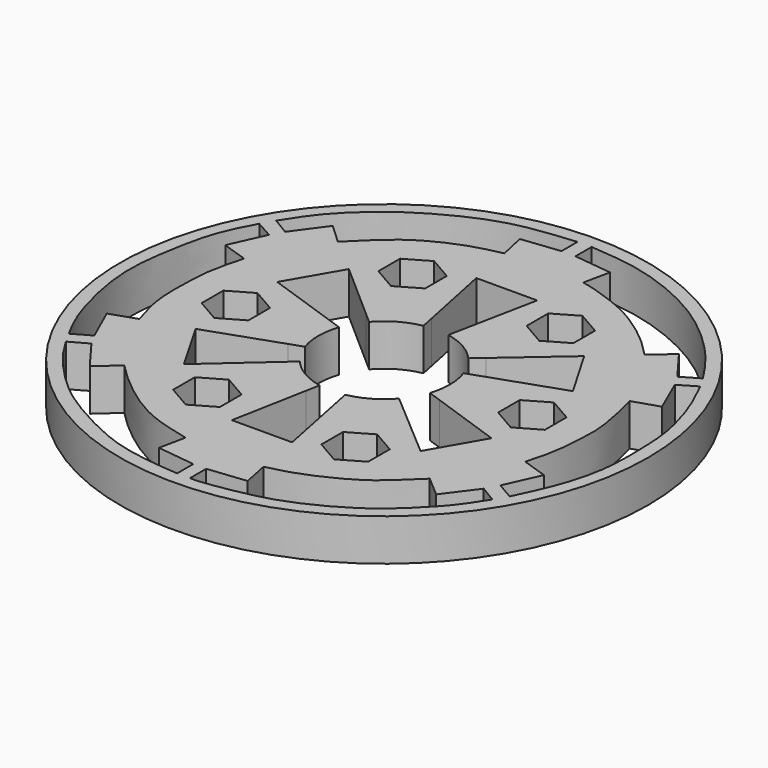
from build123d import *

# Parameters (mm, degrees)
F0_R     = 44.1766957939
F1_DEPTH = 7


with BuildPart() as f1:
    # F0 (on Top) → F1 (new body)
    with BuildSketch(Plane.XY):
        with Locations((-0.1812735665, 1.8058367039)):
            Circle(F0_R)
        with BuildLine():
            Line((-35.9427640307, -20.0616676395), (-32.9918796289, -18.4081528371))
            Line((-32.9918796289, -18.4081528371), (-29.1416766215, -23.5662139987))
            Line((-29.1416766215, -23.5662139987), (-25.7837707269, -20.5390114372))
            add(Edge.make_bspline(
                [(-25.7837707269, -20.5390114372), (-24.6766888601, -21.7216895691), (-22.2881269547, -23.9302912574), (-17.9201764944, -27.3450027653), (-13.1181523244, -29.9586218184), (-8.9450880668, -30.9922837471), (-6.7541417758, -31.5231993829)],
                knots=[0, 0, 0, 0, 0.2337004463, 0.4815951913, 0.7286397383, 1, 1, 1, 1], degree=3))
            Line((-6.7541417758, -31.5231993829), (-7.6715238485, -35.9393782949))
            Line((-7.6715238485, -35.9393782949), (-1.2969189649, -36.7169804906))
            Line((-1.2969189649, -36.7169804906), (-1.2969189649, -40.1003263926))
            add(Edge.make_bspline(
                [(-35.9427640307, -20.0616676395), (-35.4150241051, -20.9547907919), (-34.269857196, -22.8975750751), (-31.4611031158, -26.3504393812), (-26.4921125633, -31.2966065978), (-20.0139639421, -35.1310096314), (-13.1648009191, -38.4379065594), (-6.9158089459, -39.6461096822), (-3.1350021728, -39.9546374832), (-1.2969189649, -40.1003263926)],
                knots=[0, 0, 0, 0, 0.1055511433, 0.2295068333, 0.385565344, 0.5492271147, 0.7119682332, 0.8603918885, 1, 1, 1, 1], degree=3))
        make_face(mode=Mode.SUBTRACT)
        Polygon((-21.0694006642, -0.4646748675), (-24.9844006642, -2.7250011714), (-28.8994006642, -0.4646748675), (-28.8994006642, 4.0559777403), (-24.9844006642, 6.3163040441), (-21.0694006642, 4.0559777403), align=None, mode=Mode.SUBTRACT)
        Polygon((-8.659016415, -17.4190677859), (-8.659016415, -21.9397203937), (-12.574016415, -24.2000466975), (-16.489016415, -21.9397203937), (-16.489016415, -17.4190677859), (-12.574016415, -15.158741482), align=None, mode=Mode.SUBTRACT)
        with BuildLine():
            Line((28.8581652474, -23.594352979), (32.6980380249, -18.4495519882))
            Line((32.6980380249, -18.4495519882), (35.4962898326, -20.1285049354))
            add(Edge.make_bspline(
                [(0.8634262393, -40.1003263926), (1.2329669728, -40.1185077793), (2.2364504419, -40.1678791191), (6.0822739364, -39.5898896082), (9.7534582449, -38.8990314268), (14.1414351873, -37.8042335927), (19.3827796692, -35.4060133269), (23.5619930167, -32.9306072836), (27.0265026249, -30.3404491609), (31.0428462834, -26.2500703834), (33.0842958753, -23.891694874), (34.6497670872, -21.449248658), (35.4962898326, -20.1285049354)],
                knots=[0, 0, 0, 0, 0.0564376647, 0.1532558075, 0.2510560866, 0.3562412055, 0.4759055262, 0.5848852008, 0.689364245, 0.8068772402, 0.8955695847, 1, 1, 1, 1], degree=3))
            Line((0.8634262393, -40.1003263926), (0.8634262393, -36.7169804906))
            Line((0.8634262393, -36.7169804906), (7.2491168883, -36.0181868111))
            Line((7.2491168883, -36.0181868111), (6.3393223007, -31.589468572))
            add(Edge.make_bspline(
                [(6.3393223007, -31.589468572), (7.6179624559, -31.2868540313), (10.3374114447, -30.6432446442), (15.0210865302, -28.6556105594), (19.5017003158, -26.1469501729), (22.3005850776, -23.6206755435), (24.3600558598, -21.6605356306), (25.4243186078, -20.6476036152)],
                knots=[0, 0, 0, 0, 0.1907843597, 0.4057657128, 0.6200100275, 0.8036344211, 1, 1, 1, 1], degree=3))
            Line((25.4243186078, -20.6476036152), (28.8581652474, -23.594352979))
        make_face(mode=Mode.SUBTRACT)
        Polygon((12.2291106827, -15.1485562145), (16.1441106827, -17.4088825184), (16.1441106827, -21.9295351262), (12.2291106827, -24.1898614301), (8.3141106827, -21.9295351262), (8.3141106827, -17.4088825184), align=None, mode=Mode.SUBTRACT)
        with BuildLine():
            Line((-34.111180352, -16.3984984194), (-37.0366284716, -18.077449504))
            add(Edge.make_bspline(
                [(-37.0495924819, 21.7814002151), (-38.0285832494, 19.9720040208), (-40.1040049877, 16.1361555944), (-41.6275560676, 8.2255361173), (-42.4638245681, 1.7752580406), (-41.8845041948, -4.9263216319), (-39.5595719832, -13.5162989727), (-37.7980682738, -16.7008663414), (-37.0366284716, -18.077449504)],
                knots=[0, 0, 0, 0, 0.1604269609, 0.3400988172, 0.5016116203, 0.6671400202, 0.8561156381, 1, 1, 1, 1], degree=3))
            Line((-37.0495924819, 21.7814002151), (-34.0987080801, 20.1278872753))
            Line((-34.0987080801, 20.1278872753), (-36.7363998759, 14.2728876288))
            Line((-36.7363998759, 14.2728876288), (-32.4407899845, 12.8421824391))
            add(Edge.make_bspline(
                [(-32.4384132493, -9.0687066351), (-33.0007762428, -7.262017673), (-34.1163873397, -3.6779229188), (-34.1127493155, 1.8138788117), (-33.9311636584, 7.3053060494), (-32.9413290896, 10.9826332524), (-32.4407899845, 12.8421824391)],
                knots=[0, 0, 0, 0, 0.2512797598, 0.4984867279, 0.7463949913, 1, 1, 1, 1], degree=3))
            Line((-32.4384132493, -9.0687066351), (-36.7341758776, -10.5207949912))
            Line((-36.7341758776, -10.5207949912), (-34.111180352, -16.3984984194))
        make_face(mode=Mode.SUBTRACT)
        with BuildLine():
            Line((1.9605035622, -9.0091258819), (2.4230698671, -11.3073671546))
            Line((2.4230698671, -11.3073671546), (4.9475233663, -23.8500084209))
            Line((4.9475233663, -23.8500084209), (-5.1167129878, -23.8765827792))
            Line((-5.1167129878, -23.8765827792), (-2.7474155599, -11.3090876239))
            Line((-2.7474155599, -11.3090876239), (-2.3141451421, -9.0108857129))
            ThreePointArc((-2.3141451421, -9.0108857129), (-5.7471792254, -7.7110598069), (-8.5631693093, -5.3561775908))
            Line((-8.5631693093, -5.3561775908), (-10.318681596, -6.9106408114))
            Line((-10.318681596, -6.9106408114), (-19.9197644874, -15.4121650359))
            Line((-19.9197644874, -15.4121650359), (-24.9566214666, -6.6612606845))
            Line((-24.9566214666, -6.6612606845), (-12.8524359808, -2.440099833))
            Line((-12.8524359808, -2.440099833), (-10.6440411288, -1.6699538447))
            ThreePointArc((-10.6440411288, -1.6699538447), (-11.2060378981, 1.877922995), (-10.5976950193, 5.4181474766))
            Line((-10.5976950193, 5.4181474766), (-12.8078804246, 6.1824929495))
            Line((-12.8078804246, 6.1824929495), (-24.9228550363, 10.3721984724))
            Line((-24.9228550363, 10.3721984724), (-19.8859961946, 19.0722246716))
            Line((-19.8859961946, 19.0722246716), (-10.2512678858, 10.599545092))
            Line((-10.2512678858, 10.599545092), (-8.4909393642, 9.0515305513))
            ThreePointArc((-8.4909393642, 9.0515305513), (-5.6713042694, 11.3667042315), (-2.2504847152, 12.6349174692))
            Line((-2.2504847152, 12.6349174692), (-2.7204124253, 14.9260160316))
            Line((-2.7204124253, 14.9260160316), (-5.2973194369, 27.4895397884))
            Line((-5.2973194369, 27.4895397884), (4.8723468706, 27.5153366402))
            Line((4.8723468706, 27.5153366402), (2.3641303231, 14.9303607106))
            Line((2.3641303231, 14.9303607106), (1.9059536642, 12.6314594336))
            ThreePointArc((1.9059536642, 12.6314594336), (5.2819349758, 11.3820560739), (8.0754950212, 9.1117519436))
            Line((8.0754950212, 9.1117519436), (9.842007362, 10.6443980024))
            Line((9.842007362, 10.6443980024), (19.5172316661, 19.038731886))
            Line((19.5172316661, 19.038731886), (24.5598385793, 10.3891542211))
            Line((24.5598385793, 10.3891542211), (12.4415224008, 6.1934719096))
            Line((12.4415224008, 6.1934719096), (10.2316073741, 5.4283407436))
            ThreePointArc((10.2316073741, 5.4283407436), (10.6896196206, 3.6427652042), (10.8437264335, 1.8058367039))
            ThreePointArc((10.8437264335, 1.8058367039), (10.7010597097, 0.0379431931), (10.2767518366, -1.6841961998))
            Line((10.2767518366, -1.6841961998), (12.4856017188, -2.4538889489))
            Line((12.4856017188, -2.4538889489), (24.5598385793, -6.6612606845))
            Line((24.5598385793, -6.6612606845), (19.6027243789, -15.2951230373))
            Line((19.6027243789, -15.2951230373), (9.898890459, -6.9677952819))
            Line((9.898890459, -6.9677952819), (8.1241073343, -5.4447683117))
            ThreePointArc((8.1241073343, -5.4447683117), (5.3379599804, -7.7382025906), (1.9605035622, -9.0091258819))
        make_face(mode=Mode.SUBTRACT)
        Polygon((-12.5916578157, 27.8015348378), (-8.6766578157, 25.5412085339), (-8.6766578157, 21.0205559262), (-12.5916578157, 18.7602296223), (-16.5066578157, 21.0205559262), (-16.5066578157, 25.5412085339), align=None, mode=Mode.SUBTRACT)
        with BuildLine():
            add(Edge.make_bspline(
                [(-35.8794154692, 23.841932785), (-34.8132126441, 25.5326746387), (-32.6658740175, 28.9378384637), (-28.0959232016, 33.3536568525), (-24.0112731924, 36.5213116807), (-17.8109417408, 40.0697118504), (-10.632483253, 42.8909963035), (-4.5501012323, 43.4541440788), (-1.3665884127, 43.7488950754)],
                knots=[0, 0, 0, 0, 0.1566037405, 0.3154008348, 0.4604208672, 0.6286242725, 0.8056223063, 1, 1, 1, 1], degree=3))
            Line((-1.3665884127, 43.7488950754), (-1.3665884127, 40.4031522537))
            Line((-1.3665884127, 40.4031522537), (-7.7623375784, 39.6718852187))
            Line((-7.7623375784, 39.6718852187), (-6.7909932788, 35.2468699182))
            add(Edge.make_bspline(
                [(-25.8578727398, 24.2318730558), (-24.5146168119, 25.5665045214), (-21.8946230034, 28.1696764888), (-18.0136074501, 31.2801741566), (-11.9850068046, 34.1060997993), (-8.4615980529, 34.87995212), (-6.7909932788, 35.2468699182)],
                knots=[0, 0, 0, 0, 0.2489268939, 0.4855269254, 0.7560654369, 1, 1, 1, 1], degree=3))
            Line((-25.8578727398, 24.2318730558), (-29.1776629257, 27.3011144216))
            Line((-29.1776629257, 27.3011144216), (-32.9794036317, 22.1121035481))
            Line((-32.9794036317, 22.1121035481), (-35.8794154692, 23.841932785))
        make_face(mode=Mode.SUBTRACT)
        Polygon((8.296469282, 21.0307411936), (8.296469282, 25.5513938014), (12.211469282, 27.8117201053), (16.126469282, 25.5513938014), (16.126469282, 21.0307411936), (12.211469282, 18.7704148898), align=None, mode=Mode.SUBTRACT)
        Polygon((20.7068535312, 4.0763482752), (24.6218535312, 6.3366745791), (28.5368535312, 4.0763482752), (28.5368535312, -0.4443043325), (24.6218535312, -2.7046306364), (20.7068535312, -0.4443043325), align=None, mode=Mode.SUBTRACT)
        with BuildLine():
            Line((36.3932503295, 14.2241245101), (33.8236307633, 20.113023367))
            Line((33.8236307633, 20.113023367), (36.7328477931, 21.8243267352))
            add(Edge.make_bspline(
                [(36.7328477931, 21.8243267352), (37.7125970062, 19.8098338913), (39.7038150639, 15.7156284826), (41.5781915986, 8.5212004628), (41.6838824649, 3.2034013579), (41.879740039, -3.0942876764), (40.2443151323, -10.6189402066), (37.908033776, -15.5363658689), (36.7173468601, -18.0425342207)],
                knots=[0, 0, 0, 0, 0.1662522108, 0.3378868794, 0.484123471, 0.6417151571, 0.8173999576, 1, 1, 1, 1], degree=3))
            Line((36.7173468601, -18.0425342207), (33.817338748, -16.3635812735))
            Line((33.817338748, -16.3635812735), (36.4420106542, -10.5338353699))
            Line((36.4420106542, -10.5338353699), (32.1608995926, -9.0948069503))
            add(Edge.make_bspline(
                [(32.1608995926, -9.0948069503), (32.6409259852, -7.3834213081), (33.6027988307, -3.9541611613), (33.8199046774, 1.7855492288), (33.8900588676, 3.9914165247), (33.3665902788, 7.826410797), (32.5438143772, 11.0584643638), (32.0941125881, 12.8249967436)],
                knots=[0, 0, 0, 0, 0.2254438377, 0.4517424647, 0.5945217901, 0.7783791722, 1, 1, 1, 1], degree=3))
            Line((32.0941125881, 12.8249967436), (36.3932503295, 14.2241245101))
        make_face(mode=Mode.SUBTRACT)
        with BuildLine():
            Line((0.9718332347, 40.4031522537), (0.9718332347, 43.7848702038))
            add(Edge.make_bspline(
                [(0.9718332347, 43.7848702038), (3.283959394, 43.6056320236), (7.8531008079, 43.2514279121), (14.2029638044, 41.4933960513), (20.6791864997, 38.5701280485), (26.5277466012, 34.5586474617), (32.1689406614, 29.0218975237), (34.4856887143, 25.4767145216), (35.5752883386, 23.8093644346)],
                knots=[0, 0, 0, 0, 0.1661180396, 0.3282765568, 0.4958824441, 0.6653985731, 0.8426321806, 1, 1, 1, 1], degree=3))
            Line((35.5752883386, 23.8093644346), (32.6612545085, 22.1005178953))
            Line((32.6612545085, 22.1005178953), (28.8118524384, 27.2450450773))
            Line((28.8118524384, 27.2450450773), (25.4301344883, 24.2770485545))
            add(Edge.make_bspline(
                [(25.4301344883, 24.2770485545), (24.3355935474, 25.4149133685), (22.0968909745, 27.7422277626), (17.6297780385, 30.8849465296), (14.1799452181, 32.849111194), (8.6103257039, 34.7887499874), (7.0144763099, 35.0971985947), (6.4071738069, 35.2145791019)],
                knots=[0, 0, 0, 0, 0.211003518, 0.4315728183, 0.6286921316, 0.8586983216, 1, 1, 1, 1], degree=3))
            Line((6.4071738069, 35.2145791019), (7.3483907525, 39.6639689768))
            Line((7.3483907525, 39.6639689768), (0.9718332347, 40.4031522537))
        make_face(mode=Mode.SUBTRACT)
    extrude(amount=F1_DEPTH)


solid = f1.part
